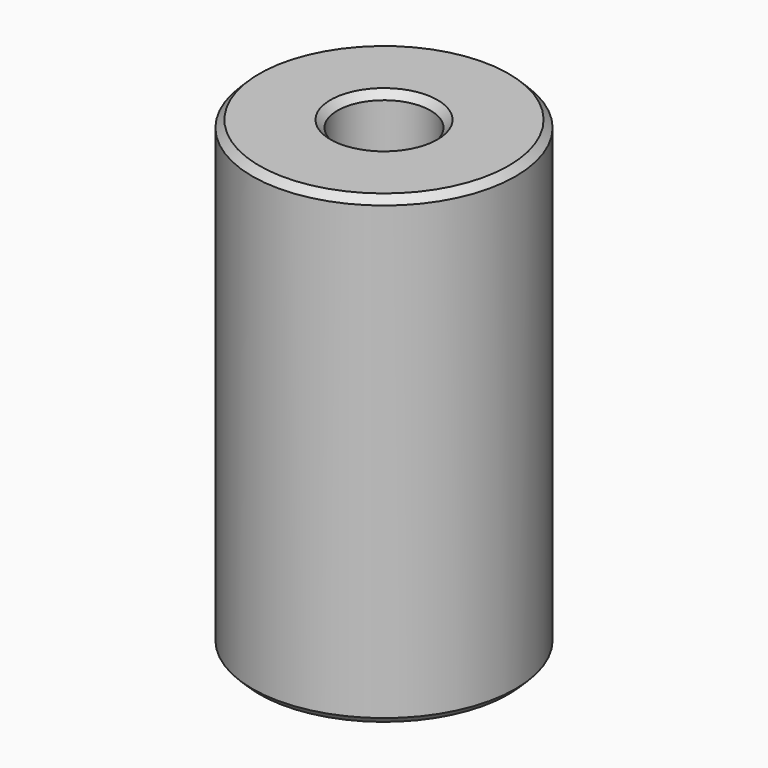
from build123d import *

# Parameters (mm, degrees)
CYLINDER043_R     = 2.65
CYLINDER043_DEPTH = 26.5
CYLINDER042_R     = 7.5
CYLINDER042_DEPTH = 26.5
CHAMFER026_SIZE   = 0.4


with BuildPart() as cylinder042:
    # Cylinder043 → Cylinder043 (new body)
    with BuildSketch(Plane.XY):
        Circle(CYLINDER043_R)
    extrude(amount=CYLINDER043_DEPTH)


with BuildPart() as short_rod:
    # Cylinder042 → Cylinder042 (new body)
    with BuildSketch(Plane.XY):
        Circle(CYLINDER042_R)
    extrude(amount=CYLINDER042_DEPTH)

    # Cut032: cut Cylinder042
    add(cylinder042.part, mode=Mode.SUBTRACT)

    # Chamfer026
    chamfer026_edges = [short_rod.edges().sort_by_distance(p)[0] for p in [
        (-7.5, 0, 26.5),
        (-7.5, 0, 0),
        (-2.65, 0, 26.5),
        (-2.65, 0, 0),
    ]]
    chamfer(chamfer026_edges, length=CHAMFER026_SIZE)


solid = short_rod.part
